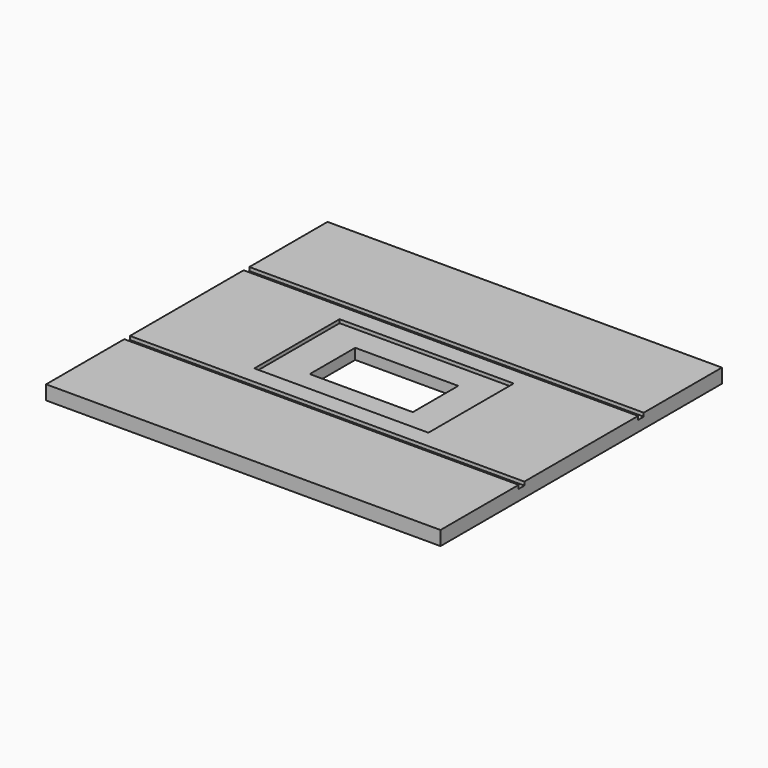
from build123d import *

# Parameters (mm, degrees)
F0_W     = 555
F0_H     = 137.5
F0_H_2   = 200
F0_W_2   = 245
F0_H_3   = 150
F1_DEPTH = 20
F0_W_3   = 145
F0_H_4   = 80
F0_H_5   = 10
F2_DEPTH = 15


with BuildPart() as f1:
    # F0 (on Top) → F1 (new body)
    with BuildSketch(Plane.XY):
        with Locations((277.5, 68.75)):
            Rectangle(F0_W, F0_H)
        with Locations((277.5, 426.25)):
            Rectangle(F0_W, F0_H)
        with Locations((277.5, 247.5)):
            Rectangle(F0_W, F0_H_2)
        with Locations((277.5, 247.5)):
            Rectangle(F0_W_2, F0_H_3, mode=Mode.SUBTRACT)
    extrude(amount=F1_DEPTH)

    # F0 (on Top) → F2 (join)
    with BuildSketch(Plane.XY):
        with Locations((277.5, 247.5)):
            Rectangle(F0_W_2, F0_H_3)
        with Locations((277.5, 247.5)):
            Rectangle(F0_W_3, F0_H_4, mode=Mode.SUBTRACT)
        with Locations((277.5, 352.5)):
            Rectangle(F0_W, F0_H_5)
        with Locations((277.5, 142.5)):
            Rectangle(F0_W, F0_H_5)
    extrude(amount=F2_DEPTH)


solid = f1.part
